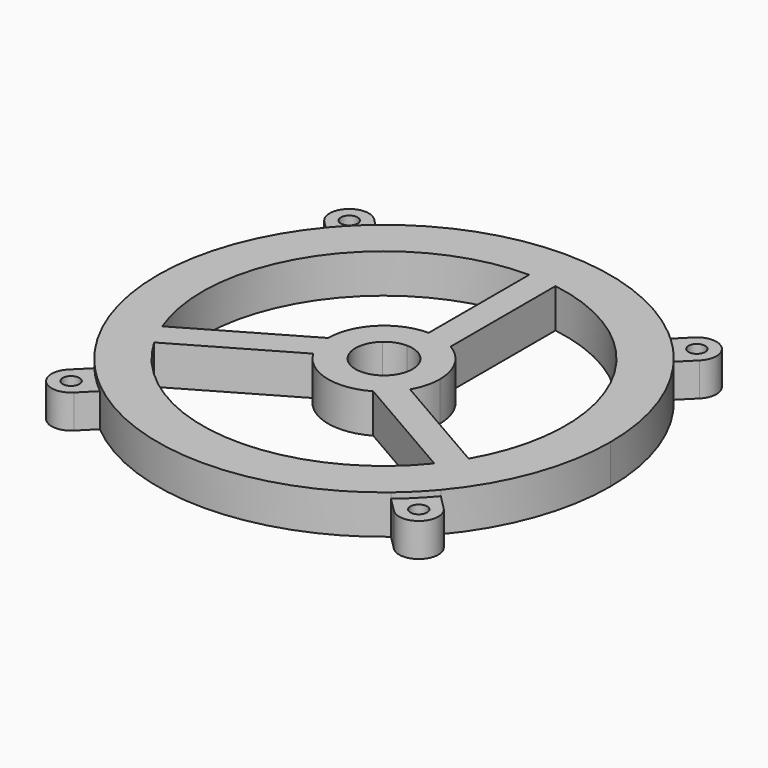
from build123d import *

# Parameters (mm, degrees)
F0_R     = 37
F1_DEPTH = 7
F0_R_2   = 1.5
F2_DEPTH = 6
F0_R_3   = 32.5
F3_DEPTH = 7
F5_DEPTH = 7


with BuildPart() as f1:
    # F0 (on Top) → F1 (new body)
    with BuildSketch(Plane.XY):
        with BuildLine():
            ThreePointArc((31.0055589695, -26.0558115012), (38.0524318426, -13.8658728851), (40.5, 0))
            ThreePointArc((40.5, 0), (38.0524318426, 13.8658728851), (31.0055589695, 26.0558115012))
            ThreePointArc((31.0055589695, 26.0558115012), (28.6378246381, 28.6378246381), (26.0558115012, 31.0055589695))
            ThreePointArc((26.0558115012, 31.0055589695), (0, 40.5), (-26.0558115012, 31.0055589695))
            ThreePointArc((-26.0558115012, 31.0055589695), (-28.6378246381, 28.6378246381), (-31.0055589695, 26.0558115012))
            ThreePointArc((-31.0055589695, 26.0558115012), (-40.5, 0), (-31.0055589695, -26.0558115012))
            ThreePointArc((-31.0055589695, -26.0558115012), (-28.6378246381, -28.6378246381), (-26.0558115012, -31.0055589695))
            ThreePointArc((-26.0558115012, -31.0055589695), (0, -40.5), (26.0558115012, -31.0055589695))
            ThreePointArc((26.0558115012, -31.0055589695), (28.6378246381, -28.6378246381), (31.0055589695, -26.0558115012))
        make_face()
        Circle(F0_R, mode=Mode.SUBTRACT)
    extrude(amount=F1_DEPTH)

    # F0 (on Top) → F2 (join)
    with BuildSketch(Plane.XY):
        with BuildLine():
            Line((-28.6378246381, -33.5875721064), (-26.0558115012, -31.0055589695))
            ThreePointArc((-26.0558115012, -31.0055589695), (-28.6378246381, -28.6378246381), (-31.0055589695, -26.0558115012))
            Line((-31.0055589695, -26.0558115012), (-33.5875721064, -28.6378246381))
            ThreePointArc((-33.5875721064, -28.6378246381), (-33.5875721064, -33.5875721064), (-28.6378246381, -33.5875721064))
        make_face()
        with Locations((-31.1126983722, -31.1126983722)):
            Circle(F0_R_2, mode=Mode.SUBTRACT)
        with BuildLine():
            Line((33.5875721064, -28.6378246381), (31.0055589695, -26.0558115012))
            ThreePointArc((31.0055589695, -26.0558115012), (28.6378246381, -28.6378246381), (26.0558115012, -31.0055589695))
            Line((26.0558115012, -31.0055589695), (28.6378246381, -33.5875721064))
            ThreePointArc((28.6378246381, -33.5875721064), (33.5875721064, -33.5875721064), (33.5875721064, -28.6378246381))
        make_face()
        with Locations((31.1126983722, -31.1126983722)):
            Circle(F0_R_2, mode=Mode.SUBTRACT)
        with BuildLine():
            ThreePointArc((26.0558115012, 31.0055589695), (28.6378246381, 28.6378246381), (31.0055589695, 26.0558115012))
            Line((31.0055589695, 26.0558115012), (33.5875721064, 28.6378246381))
            ThreePointArc((33.5875721064, 28.6378246381), (33.5875721064, 33.5875721064), (28.6378246381, 33.5875721064))
            Line((28.6378246381, 33.5875721064), (26.0558115012, 31.0055589695))
        make_face()
        with Locations((31.1126983722, 31.1126983722)):
            Circle(F0_R_2, mode=Mode.SUBTRACT)
        with BuildLine():
            ThreePointArc((-31.0055589695, 26.0558115012), (-28.6378246381, 28.6378246381), (-26.0558115012, 31.0055589695))
            Line((-26.0558115012, 31.0055589695), (-28.6378246381, 33.5875721064))
            ThreePointArc((-28.6378246381, 33.5875721064), (-33.5875721064, 33.5875721064), (-33.5875721064, 28.6378246381))
            Line((-33.5875721064, 28.6378246381), (-31.0055589695, 26.0558115012))
        make_face()
        with Locations((-31.1126983722, 31.1126983722)):
            Circle(F0_R_2, mode=Mode.SUBTRACT)
    extrude(amount=F2_DEPTH)

    # F0 (on Top) → F3 (join)
    with BuildSketch(Plane.XY):
        Circle(F0_R)
        Circle(F0_R_3, mode=Mode.SUBTRACT)
    extrude(amount=F3_DEPTH)

    # F4 (on face) → F5 (join)
    with BuildSketch(Plane.XY.offset(7)):
        with BuildLine():
            ThreePointArc((0, 10), (2.588190451, 9.6592582629), (5, 8.6602540378))
            Line((5, 8.6602540378), (5, 32.1130814467))
            ThreePointArc((5, 32.1130814467), (2.5074741258, 32.4031259836), (0, 32.5))
            Line((0, 32.5), (0, 10))
        make_face()
        with BuildLine():
            ThreePointArc((5, 1.0049875621), (5.0749384233, 0.5049752469), (5.1, 0))
            ThreePointArc((5.1, 0), (4.9262217141, -1.31997713), (4.4167295593, -2.55))
            Line((4.4167295593, -2.55), (8.6602540378, -5))
            ThreePointArc((8.6602540378, -5), (9.6592582629, -2.588190451), (10, 0))
            ThreePointArc((10, 0), (8.6602540378, 5), (5, 8.6602540378))
            Line((5, 8.6602540378), (5, 1.0049875621))
        make_face()
        with BuildLine():
            ThreePointArc((0, 5.1), (3.2314519518, 3.9455947946), (5, 1.0049875621))
            Line((5, 1.0049875621), (5, 8.6602540378))
            ThreePointArc((5, 8.6602540378), (2.588190451, 9.6592582629), (0, 10))
            Line((0, 10), (0, 5.1))
        make_face()
        with BuildLine():
            ThreePointArc((-3.3703447593, 3.8276332379), (-1.8012593493, 4.7713168787), (0, 5.1))
            Line((0, 5.1), (0, 10))
            ThreePointArc((0, 10), (-7.0710678119, 7.0710678119), (-10, 0))
            Line((-10, 0), (-3.3703447593, 3.8276332379))
        make_face()
        with BuildLine():
            ThreePointArc((-4.4167295593, -2.55), (-5.0327113011, 0.825722084), (-3.3703447593, 3.8276332379))
            Line((-3.3703447593, 3.8276332379), (-10, 0))
            ThreePointArc((-10, 0), (-9.6592582629, -2.588190451), (-8.6602540378, -5))
            Line((-8.6602540378, -5), (-4.4167295593, -2.55))
        make_face()
        with BuildLine():
            Line((5, -8.6602540378), (-1.6296552407, -4.8326208))
            ThreePointArc((-1.6296552407, -4.8326208), (-3.2314519518, -3.9455947946), (-4.4167295593, -2.55))
            Line((-4.4167295593, -2.55), (-8.6602540378, -5))
            ThreePointArc((-8.6602540378, -5), (-2.588190451, -9.6592582629), (5, -8.6602540378))
        make_face()
        with BuildLine():
            Line((8.6602540378, -5), (4.4167295593, -2.55))
            ThreePointArc((4.4167295593, -2.55), (1.8012593493, -4.7713168787), (-1.6296552407, -4.8326208))
            Line((-1.6296552407, -4.8326208), (5, -8.6602540378))
            ThreePointArc((5, -8.6602540378), (7.0710678119, -7.0710678119), (8.6602540378, -5))
        make_face()
        with BuildLine():
            Line((28.145825623, -16.25), (8.6602540378, -5))
            ThreePointArc((8.6602540378, -5), (7.0710678119, -7.0710678119), (5, -8.6602540378))
            Line((5, -8.6602540378), (25.3107443266, -20.3866677423))
            ThreePointArc((25.3107443266, -20.3866677423), (26.8081932009, -18.3730992841), (28.145825623, -16.25))
        make_face()
        with BuildLine():
            ThreePointArc((-8.6602540378, -5), (-9.6592582629, -2.588190451), (-10, 0))
            Line((-10, 0), (-30.3107443266, -11.7264137044))
            ThreePointArc((-30.3107443266, -11.7264137044), (-29.3156673267, -14.0300266995), (-28.145825623, -16.25))
            Line((-28.145825623, -16.25), (-8.6602540378, -5))
        make_face()
    extrude(amount=-F5_DEPTH)


solid = f1.part
